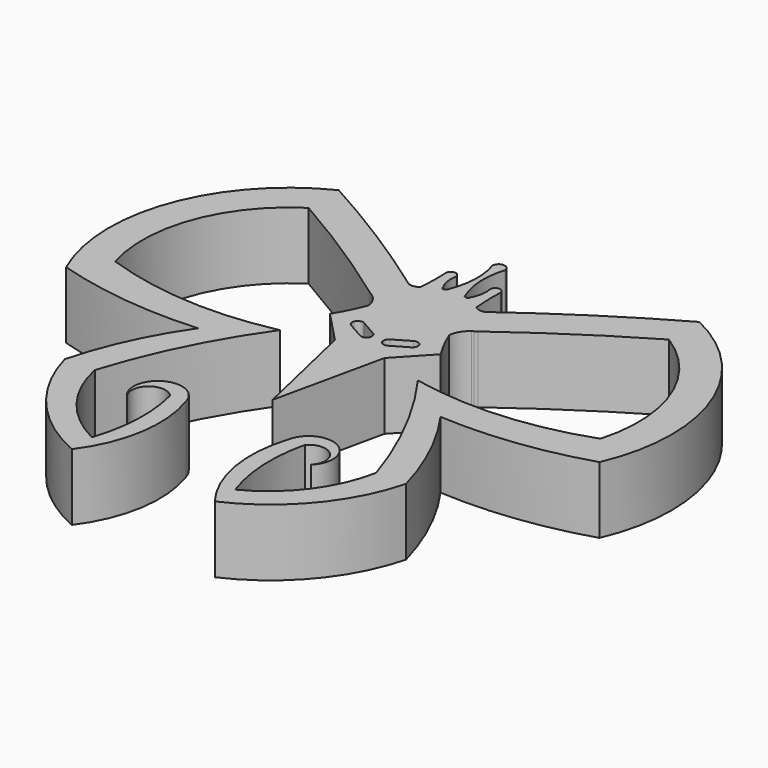
from build123d import *

# Parameters (mm, degrees)
F1_DEPTH = 6.35


with BuildPart() as f1:
    # F0 (on Top) → F1 (new body)
    with BuildSketch(Plane.XY):
        with BuildLine():
            ThreePointArc((0.454082, 0.478478), (0.278106, 0.901741), (-0.146081, 1.07548))
            Line((-0.146081, 1.07548), (0, -26.589924))
            Line((0, -26.589924), (2.290883, -16.137376))
            Line((2.290883, -16.137376), (5.173199, -13.055723))
            ThreePointArc((5.173199, -13.055723), (4.397622, -11.688582), (3.744518, -10.25888))
            ThreePointArc((3.744518, -10.25888), (4.023673, -9.383817), (4.648638, -8.710705))
            ThreePointArc((4.648638, -8.710705), (4.716945, -8.66563), (4.78695, -8.623243))
            Line((4.78695, -8.623243), (5.040929, -8.46264))
            ThreePointArc((5.040929, -8.46264), (10.876438, -4.374773), (16.930446, -0.618068))
            ThreePointArc((16.930446, -0.618068), (22.537122, -7.43494), (22.926339, -16.252709))
            ThreePointArc((22.926339, -16.252709), (14.785708, -17.964937), (6.485587, -17.408523))
            ThreePointArc((6.485587, -17.408523), (10.444862, -23.908384), (13.347887, -30.943759))
            ThreePointArc((13.347887, -30.943759), (11.104788, -36.022973), (6.854687, -39.596003))
            ThreePointArc((6.854687, -39.596003), (5.992693, -35.201596), (6.407121, -30.742662))
            ThreePointArc((6.407121, -30.742662), (8.702961, -30.642489), (8.737067, -32.94026))
            ThreePointArc((8.737067, -32.94026), (8.317875, -29.25748), (4.921873, -30.742662))
            ThreePointArc((4.921873, -30.742662), (4.494337, -36.621274), (6.854687, -42.022163))
            ThreePointArc((6.854687, -42.022163), (12.773811, -37.539563), (16.183371, -30.943759))
            ThreePointArc((16.183371, -30.943759), (14.258029, -25.726553), (11.451863, -20.925343))
            ThreePointArc((11.451863, -20.925343), (18.414863, -20.703369), (25.22471, -19.234144))
            ThreePointArc((25.22471, -19.234144), (25.555314, -6.440003), (16.92072, 3.006856))
            ThreePointArc((16.92072, 3.006856), (10.098074, -1.120915), (3.539007, -5.655849))
            ThreePointArc((3.539007, -5.655849), (3.019272, -5.73262), (2.542413, -5.512112))
            ThreePointArc((2.542413, -5.512112), (2.439849, -4.073337), (2.453046, -2.630971))
            ThreePointArc((2.453046, -2.630971), (2.454254, -2.606818), (2.455495, -2.582667))
            ThreePointArc((2.455495, -2.582667), (1.977854, -2.105025), (1.500212, -2.582667))
            ThreePointArc((1.500212, -2.582667), (1.516702, -3.568582), (1.197531, -4.50155))
            ThreePointArc((1.197531, -4.50155), (0.94141, -4.757671), (0.685288, -4.50155))
            ThreePointArc((0.685288, -4.50155), (0.126595, -2.032107), (0.454082, 0.478478))
        make_face()
        with BuildLine():
            ThreePointArc((1.165291, -14.479887), (0.526476, -14.196909), (0.752014, -13.535627))
            Line((0.752014, -13.535627), (2.261646, -12.653382))
            ThreePointArc((2.261646, -12.653382), (2.970165, -12.840341), (2.781119, -13.548306))
            Line((2.781119, -13.548306), (1.165291, -14.479887))
        make_face(mode=Mode.SUBTRACT)
        with BuildLine():
            Line((0, -26.589924), (-0.146081, 1.07548))
            ThreePointArc((-0.146081, 1.07548), (-0.568409, 0.897272), (-0.739906, 0.472174))
            ThreePointArc((-0.739906, 0.472174), (-0.385925, -2.034813), (-0.918509, -4.510018))
            ThreePointArc((-0.918509, -4.510018), (-1.171911, -4.76883), (-1.430723, -4.515428))
            ThreePointArc((-1.430723, -4.515428), (-1.759729, -3.585882), (-1.753651, -2.599848))
            ThreePointArc((-1.753651, -2.599848), (-2.23631, -2.127277), (-2.708881, -2.609936))
            ThreePointArc((-2.708881, -2.609936), (-2.707385, -2.634073), (-2.705922, -2.658212))
            ThreePointArc((-2.705922, -2.658212), (-2.677494, -4.100358), (-2.764858, -5.540136))
            ThreePointArc((-2.764858, -5.540136), (-3.239361, -5.765667), (-3.759878, -5.694389))
            ThreePointArc((-3.759878, -5.694389), (-10.36647, -1.228974), (-17.232326, 2.826518))
            ThreePointArc((-17.232326, 2.826518), (-25.766677, -6.710997), (-25.300982, -19.500933))
            ThreePointArc((-25.300982, -19.500933), (-18.475999, -20.898162), (-11.511044, -21.046594))
            ThreePointArc((-11.511044, -21.046594), (-14.266352, -25.877169), (-16.136491, -31.114416))
            ThreePointArc((-16.136491, -31.114416), (-12.657468, -37.673847), (-6.691336, -42.09369))
            ThreePointArc((-6.691336, -42.09369), (-4.388153, -36.668176), (-4.877745, -30.794407))
            ThreePointArc((-4.877745, -30.794407), (-8.289241, -29.34517), (-8.669519, -33.032172))
            ThreePointArc((-8.669519, -33.032172), (-8.659679, -30.734169), (-6.36291, -30.810091))
            ThreePointArc((-6.36291, -30.810091), (-5.901417, -35.2644), (-6.716957, -39.667664))
            ThreePointArc((-6.716957, -39.667664), (-11.004554, -36.139716), (-13.301165, -31.084473))
            ThreePointArc((-13.301165, -31.084473), (-10.472597, -24.018834), (-6.582184, -17.477524))
            ThreePointArc((-6.582184, -17.477524), (-14.875966, -18.121559), (-23.034224, -16.495393))
            ThreePointArc((-23.034224, -16.495393), (-22.738146, -7.674005), (-17.20377, -0.798306))
            ThreePointArc((-17.20377, -0.798306), (-11.110429, -4.490869), (-5.232076, -8.516884))
            Line((-5.232076, -8.516884), (-4.976416, -8.674796))
            ThreePointArc((-4.976416, -8.674796), (-4.905966, -8.716442), (-4.837188, -8.760792))
            ThreePointArc((-4.837188, -8.760792), (-4.20515, -9.427268), (-3.916769, -10.299333))
            ThreePointArc((-3.916769, -10.299333), (-4.554739, -11.735853), (-5.315835, -13.111108))
            Line((-5.315835, -13.111108), (-2.401136, -16.162151))
            Line((-2.401136, -16.162151), (0, -26.589924))
        make_face()
        with BuildLine():
            Line((-2.408693, -12.678042), (-0.889828, -13.544297))
            ThreePointArc((-0.889828, -13.544297), (-0.657319, -14.20316), (-1.293111, -14.492868))
            Line((-1.293111, -14.492868), (-2.918687, -13.578403))
            ThreePointArc((-2.918687, -13.578403), (-3.115198, -12.872473), (-2.408693, -12.678042))
        make_face(mode=Mode.SUBTRACT)
    extrude(amount=F1_DEPTH)


solid = f1.part
